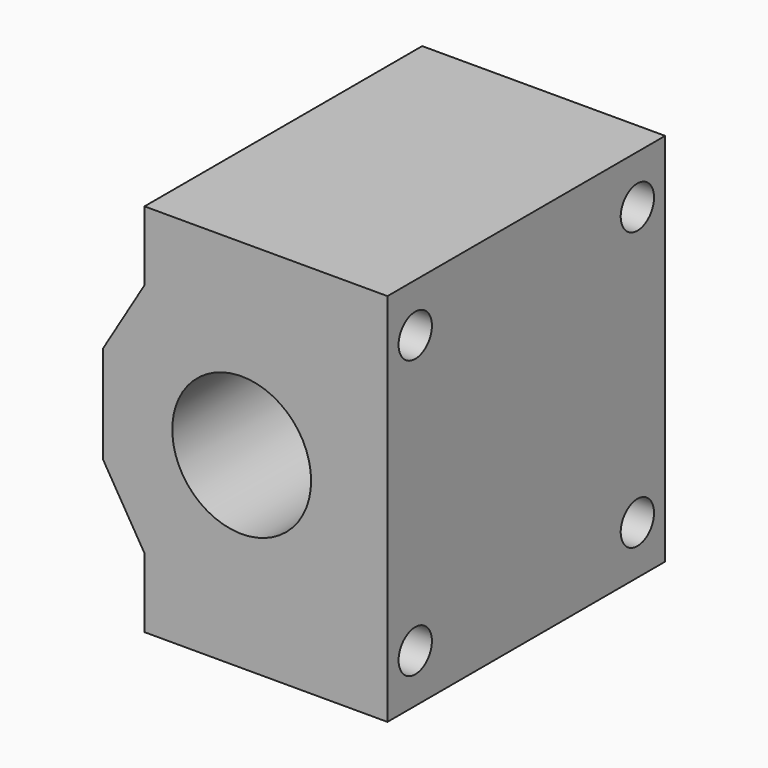
from build123d import *

# Parameters (mm, degrees)
F1_DEPTH = 25
F2_R     = 10
F3_DEPTH = 50
F4_R     = 3
F5_DEPTH = 12


with BuildPart() as f1:
    # F0 (on Front) → F1 (new body, symmetric)
    with BuildSketch(Plane.XZ):
        Polygon((20.5, -27), (20.5, 27), (-14.5, 27), (-14.5, 17), (-20.5, 7), (-20.5, -7), (-14.5, -17), (-14.5, -27), align=None)
    extrude(amount=F1_DEPTH, both=True)

    # F2 (on face) → F3 (cut)
    with BuildSketch(Plane.XZ.offset(25)):
        with Locations((-0.5, 0)):
            Circle(F2_R)
    extrude(amount=-F3_DEPTH, mode=Mode.SUBTRACT)

    # F4 (on face) → F5 (cut)
    with BuildSketch(Plane.YZ.offset(20.5)):
        with Locations((-20, 20)):
            Circle(F4_R)
        with Locations((20, 20)):
            Circle(F4_R)
        with Locations((20, -20)):
            Circle(F4_R)
        with Locations((-20, -20)):
            Circle(F4_R)
    extrude(amount=-F5_DEPTH, mode=Mode.SUBTRACT)


solid = f1.part
